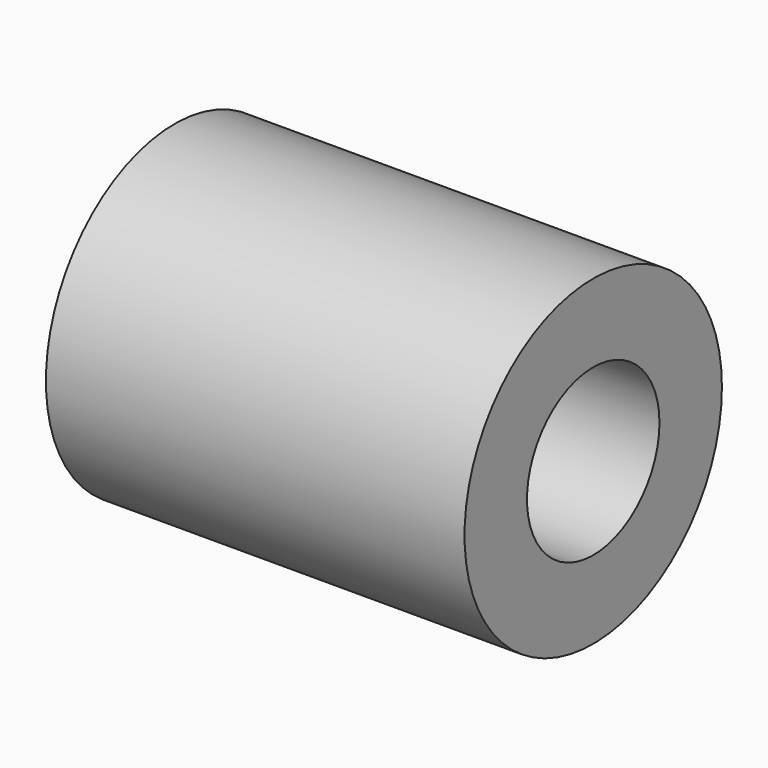
from build123d import *

# Parameters (mm, degrees)
F0_R     = 19.519603
F0_R_2   = 10.045919
F1_DEPTH = 25.4
F3_R     = 2.03558
F3_R_2   = 1.669537
F3_R_3   = 1.73871
F2_R     = 19.519603
F2_R_2   = 10.045919
F4_DEPTH = 25.4


with BuildPart() as f1:
    # F0 (on Right) → F1 (new body)
    with BuildSketch(Plane.YZ):
        with Locations((-27.82191, 18.265542)):
            Circle(F0_R)
        with Locations((-27.82191, 18.265542)):
            Circle(F0_R_2, mode=Mode.SUBTRACT)
    extrude(amount=F1_DEPTH)

    # F3 (on face) + F2 (on face) → F4 (join)
    with BuildSketch(Plane.YZ.offset(25.4)):
        with Locations((-43.382533, 22.552796)):
            Circle(F3_R)
        with Locations((-41.091308, 27.054697)):
            Circle(F3_R_2)
        with Locations((-31.573892, 31.454124)):
            Circle(F3_R_3)
    with BuildSketch(Plane.YZ.offset(25.4)):
        with Locations((-27.82191, 18.265542)):
            Circle(F2_R)
        with Locations((-27.82191, 18.265542)):
            Circle(F2_R_2, mode=Mode.SUBTRACT)
    extrude(amount=F4_DEPTH)


solid = f1.part
